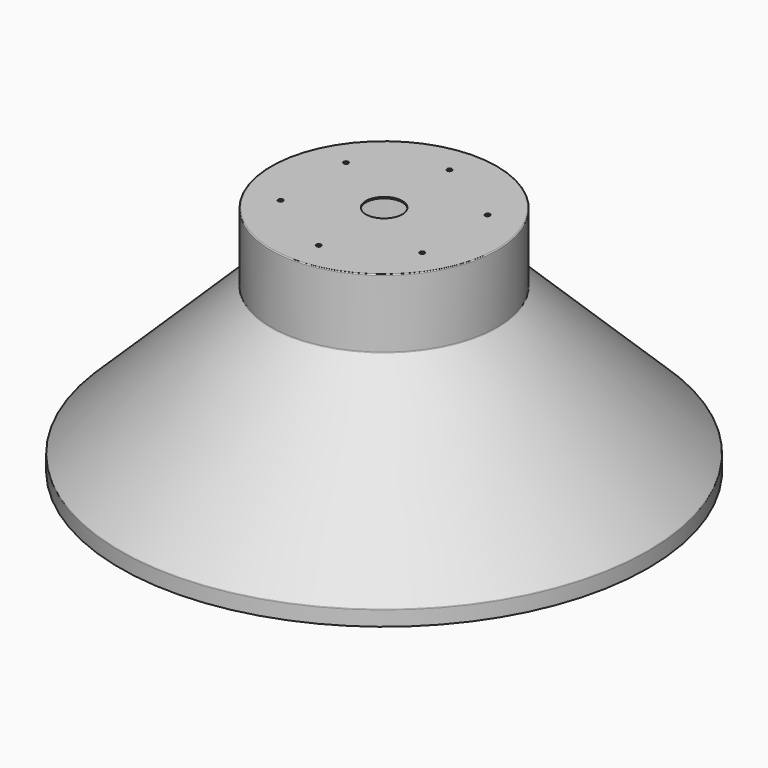
from build123d import *

# Parameters (mm, degrees)
F2_R     = 5
F3_DEPTH = 1.5
F4_R     = 20
F5_DEPTH = 254.001
F6_R     = 2.6
F7_DEPTH = 254.001


with BuildPart() as f1:
    # F0 (on Front) → F1 (revolve)
    with BuildSketch(Plane.XZ):
        with BuildLine():
            Line((288, 16), (288, 0))
            Line((288, 0), (289.5, 0))
            Line((289.5, 0), (289.5, 16.210244))
            ThreePointArc((289.5, 16.210244), (289.421822, 16.597858), (289.19951, 16.924867))
            Line((289.19951, 16.924867), (124.30049, 178.336596))
            ThreePointArc((124.30049, 178.336596), (124.078178, 178.663604), (124, 179.051219))
            Line((124, 179.051219), (124, 253))
            ThreePointArc((124, 253), (123.707107, 253.707107), (123, 254))
            Line((123, 254), (0, 254))
            Line((0, 254), (0, 252.5))
            Line((0, 252.5), (122.5, 252.5))
            Line((122.5, 252.5), (122.5, 178))
            Line((122.5, 178), (288, 16))
        make_face()
    revolve(axis=Axis((0, 0, 126.25), (0, 0, 1)))

    # F2 (on face) → F3 (cut, through all)
    with BuildSketch(Plane.XY.offset(254)):
        Circle(F2_R)
    extrude(amount=-F3_DEPTH, mode=Mode.SUBTRACT)

    # F4 (on face) → F5 (cut, through all)
    with BuildSketch(Plane.XY.offset(254)):
        Circle(F4_R)
    extrude(amount=-F5_DEPTH, mode=Mode.SUBTRACT)

    # F6 (on face) → F7 (cut, through all)
    with BuildSketch(Plane.XY.offset(254)):
        with Locations((0, 89.65)):
            Circle(F6_R)
        with Locations((-77.639177, 44.825)):
            Circle(F6_R)
        with Locations((-77.639177, -44.825)):
            Circle(F6_R)
        with Locations((0, -89.65)):
            Circle(F6_R)
        with Locations((77.639177, -44.825)):
            Circle(F6_R)
        with Locations((77.639177, 44.825)):
            Circle(F6_R)
    extrude(amount=-F7_DEPTH, mode=Mode.SUBTRACT)


solid = f1.part
